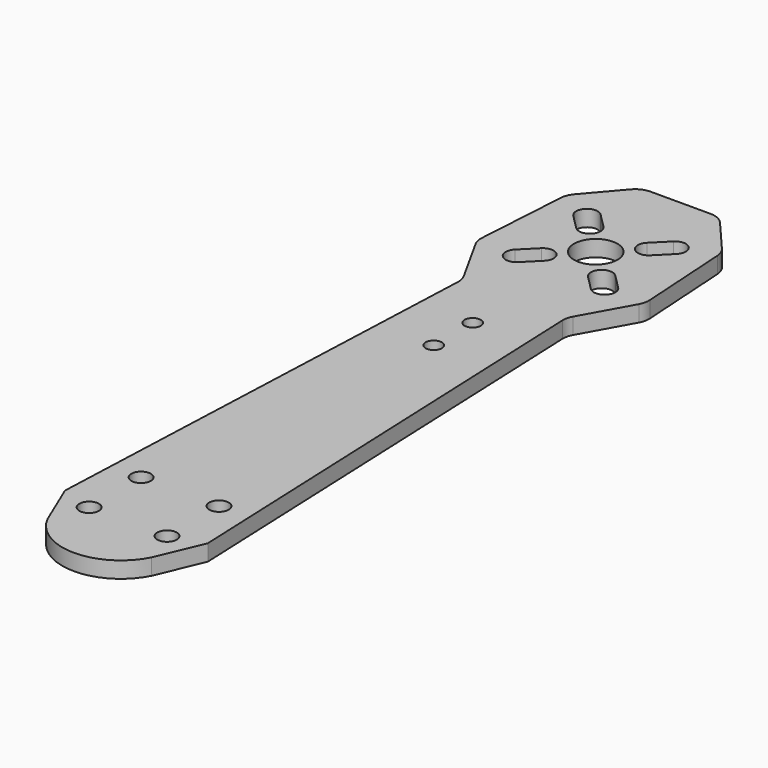
from build123d import *

# Parameters (mm, degrees)
F0_R     = 1.5
F0_R_2   = 1.25
F0_R_3   = 3.35
F1_DEPTH = 2.5


with BuildPart() as f1:
    # F0 (on Top) → F1 (new body)
    with BuildSketch(Plane.XY):
        with BuildLine():
            Line((-8.0347370397, 15.957047836), (-11, -56))
            Line((-11, -56), (-7.9966708881, -63.1295586577))
            ThreePointArc((-7.9966708881, -63.1295586577), (0, -68), (7.9966708881, -63.1295586577))
            Line((7.9966708881, -63.1295586577), (11, -56))
            Line((11, -56), (8.0347370397, 15.957047836))
            ThreePointArc((8.0347370397, 15.957047836), (8.1132286629, 16.7731349004), (8.4097212043, 17.5374981677))
            Line((8.4097212043, 17.5374981677), (12.5735371817, 25.0323669271))
            ThreePointArc((12.5735371817, 25.0323669271), (12.8772178164, 25.8277582971), (12.9452230888, 26.6764305791))
            Line((12.9452230888, 26.6764305791), (12.0626597761, 40.7974435824))
            ThreePointArc((12.0626597761, 40.7974435824), (11.8483082239, 41.738438851), (11.3462718477, 42.5626828443))
            Line((11.3462718477, 42.5626828443), (6.8979650397, 47.7523741204))
            ThreePointArc((6.8979650397, 47.7523741204), (5.8737656612, 48.5255386955), (4.6201952326, 48.8))
            Line((4.6201952326, 48.8), (-4.6201952326, 48.8))
            ThreePointArc((-4.6201952326, 48.8), (-5.8737656612, 48.5255386955), (-6.8979650397, 47.7523741204))
            Line((-6.8979650397, 47.7523741204), (-11.3462718477, 42.5626828443))
            ThreePointArc((-11.3462718477, 42.5626828443), (-11.8483082239, 41.738438851), (-12.0626597761, 40.7974435824))
            Line((-12.0626597761, 40.7974435824), (-12.9452230888, 26.6764305791))
            ThreePointArc((-12.9452230888, 26.6764305791), (-12.8772178164, 25.8277582971), (-12.5735371817, 25.0323669271))
            Line((-12.5735371817, 25.0323669271), (-8.4097212043, 17.5374981677))
            ThreePointArc((-8.4097212043, 17.5374981677), (-8.1132286629, 16.7731349004), (-8.0347370397, 15.957047836))
        make_face()
        with Locations((-6, -57.6)):
            Circle(F0_R, mode=Mode.SUBTRACT)
        with Locations((-6, -47.6)):
            Circle(F0_R, mode=Mode.SUBTRACT)
        with Locations((6, -57.6)):
            Circle(F0_R, mode=Mode.SUBTRACT)
        with Locations((6, -47.6)):
            Circle(F0_R, mode=Mode.SUBTRACT)
        with Locations((0, 1.25)):
            Circle(F0_R_2, mode=Mode.SUBTRACT)
        with Locations((0, 8.75)):
            Circle(F0_R_2, mode=Mode.SUBTRACT)
        with BuildLine():
            Line((-7.9549512883, 26.8285010896), (-5.6922095886, 29.0912427894))
            ThreePointArc((-5.6922095886, 29.0912427894), (-3.3587572106, 29.0912427894), (-3.3587572106, 26.7577904114))
            Line((-3.3587572106, 26.7577904114), (-5.6214989104, 24.4950487117))
            ThreePointArc((-5.6214989104, 24.4950487117), (-7.9549512883, 24.4950487117), (-7.9549512883, 26.8285010896))
        make_face(mode=Mode.SUBTRACT)
        with Locations((0, 32.45)):
            Circle(F0_R_3, mode=Mode.SUBTRACT)
        with BuildLine():
            Line((-5.6214989104, 40.4049512883), (-3.3587572106, 38.1422095886))
            ThreePointArc((-3.3587572106, 38.1422095886), (-3.3587572106, 35.8087572106), (-5.6922095886, 35.8087572106))
            Line((-5.6922095886, 35.8087572106), (-7.9549512883, 38.0714989104))
            ThreePointArc((-7.9549512883, 38.0714989104), (-7.9549512883, 40.4049512883), (-5.6214989104, 40.4049512883))
        make_face(mode=Mode.SUBTRACT)
        with BuildLine():
            Line((5.6214989104, 24.4950487117), (3.3587572106, 26.7577904114))
            ThreePointArc((3.3587572106, 26.7577904114), (3.3587572106, 29.0912427894), (5.6922095886, 29.0912427894))
            Line((5.6922095886, 29.0912427894), (7.9549512883, 26.8285010896))
            ThreePointArc((7.9549512883, 26.8285010896), (7.9549512883, 24.4950487117), (5.6214989104, 24.4950487117))
        make_face(mode=Mode.SUBTRACT)
        with BuildLine():
            Line((7.9549512883, 38.0714989104), (5.6922095886, 35.8087572106))
            ThreePointArc((5.6922095886, 35.8087572106), (3.3587572106, 35.8087572106), (3.3587572106, 38.1422095886))
            Line((3.3587572106, 38.1422095886), (5.6214989104, 40.4049512883))
            ThreePointArc((5.6214989104, 40.4049512883), (7.9549512883, 40.4049512883), (7.9549512883, 38.0714989104))
        make_face(mode=Mode.SUBTRACT)
    extrude(amount=F1_DEPTH)


solid = f1.part
